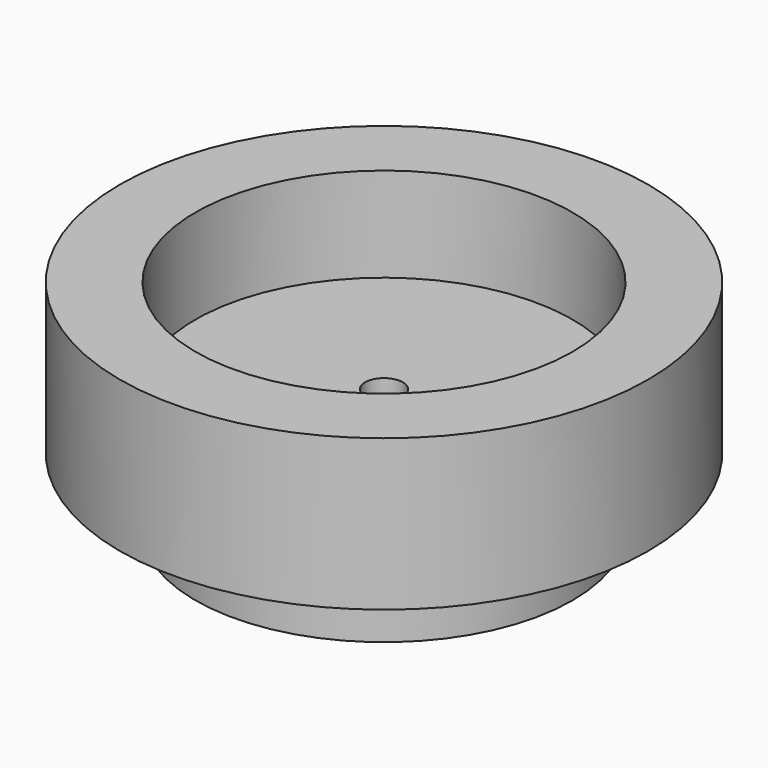
from build123d import *

# Parameters (mm, degrees)
F0_R     = 70
F0_R_2   = 50
F1_DEPTH = 40
F0_R_3   = 5
F2_DEPTH = 15
F3_DEPTH = 18


with BuildPart() as f1:
    # F0 (on Top) → F1 (new body)
    with BuildSketch(Plane.XY):
        Circle(F0_R)
        Circle(F0_R_2, mode=Mode.SUBTRACT)
    extrude(amount=F1_DEPTH)

    # F0 (on Top) → F2 (join)
    with BuildSketch(Plane.XY):
        Circle(F0_R_2)
        Circle(F0_R_3, mode=Mode.SUBTRACT)
    extrude(amount=F2_DEPTH)


with BuildPart() as f3:
    # F0 (on Top) → F3 (new body)
    with BuildSketch(Plane.XY):
        Circle(F0_R_2)
        Circle(F0_R_3, mode=Mode.SUBTRACT)
    extrude(amount=-F3_DEPTH)


solid = Compound([f1.part, f3.part])
